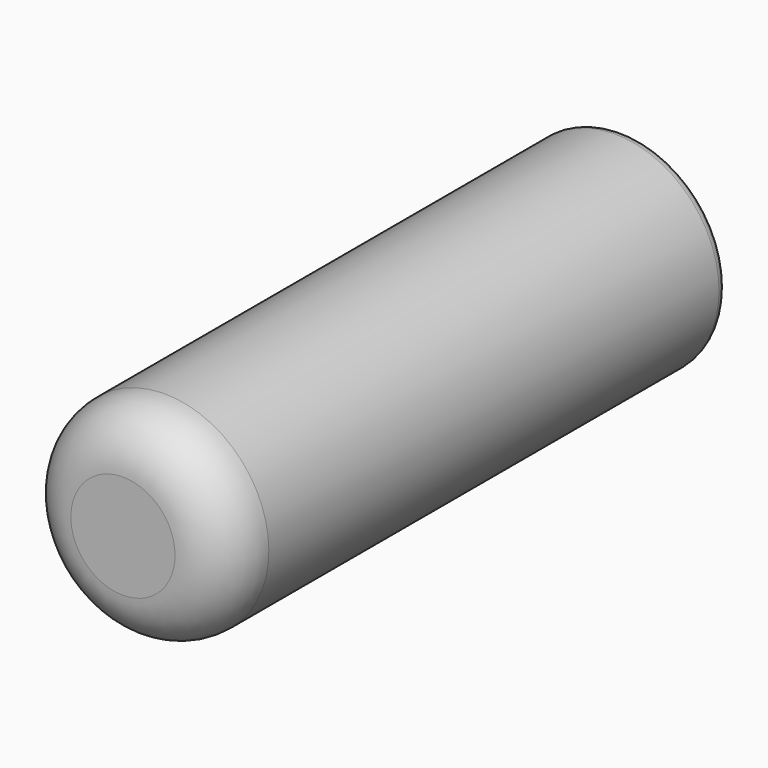
from build123d import *

# Parameters (mm, degrees)
F1_R     = 2
F2_DEPTH = 12
F3_R     = 1
F4_R     = 0.2
F5_R     = 1.25
F6_DEPTH = 10


with BuildPart() as f2:
    # F1 (on Front) → F2 (new body)
    with BuildSketch(Plane.XZ):
        Circle(F1_R)
    extrude(amount=F2_DEPTH)

    # F3
    f3_edges = [f2.edges().sort_by_distance(p)[0] for p in [
        (-2, -12, 0),
    ]]
    fillet(f3_edges, radius=F3_R)

    # F4
    f4_edges = [f2.edges().sort_by_distance(p)[0] for p in [
        (-2, 0, 0),
    ]]
    fillet(f4_edges, radius=F4_R)

    # F5 (on face) → F6 (cut)
    with BuildSketch(Plane(origin=(0, 0, 0), x_dir=(-1, 0, 0), z_dir=(0, 1, 0))):
        Circle(F5_R)
    extrude(amount=-F6_DEPTH, mode=Mode.SUBTRACT)


solid = f2.part
